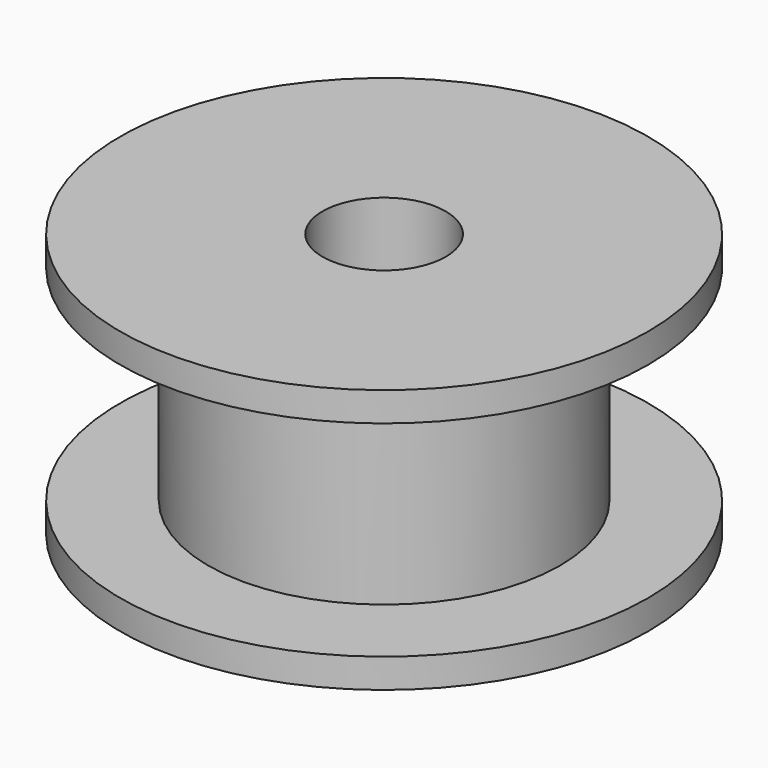
from build123d import *

# Parameters (mm, degrees)
SKETCH_R      = 6
SKETCH_R_2    = 2.1
PAD_DEPTH     = 7
SKETCH001_R   = 9
SKETCH001_R_2 = 2.1
PAD001_DEPTH  = 1
SKETCH002_R   = 9
SKETCH002_R_2 = 2.1
PAD002_DEPTH  = 1


with BuildPart() as part:
    # Sketch → Pad (new body)
    with BuildSketch(Plane.XY):
        Circle(SKETCH_R)
        Circle(SKETCH_R_2, mode=Mode.SUBTRACT)
    extrude(amount=PAD_DEPTH)

    # Sketch001 (on Face4 of Pad) → Pad001 (join)
    with BuildSketch(Plane.XY.offset(7)):
        Circle(SKETCH001_R)
        Circle(SKETCH001_R_2, mode=Mode.SUBTRACT)
    extrude(amount=PAD001_DEPTH)

    # Sketch002 (on Face2 of Pad001) → Pad002 (join)
    with BuildSketch(Plane(origin=(0, 0, 0), x_dir=(1, 0, 0), z_dir=(0, 0, -1))):
        Circle(SKETCH002_R)
        Circle(SKETCH002_R_2, mode=Mode.SUBTRACT)
    extrude(amount=PAD002_DEPTH)


solid = part.part
